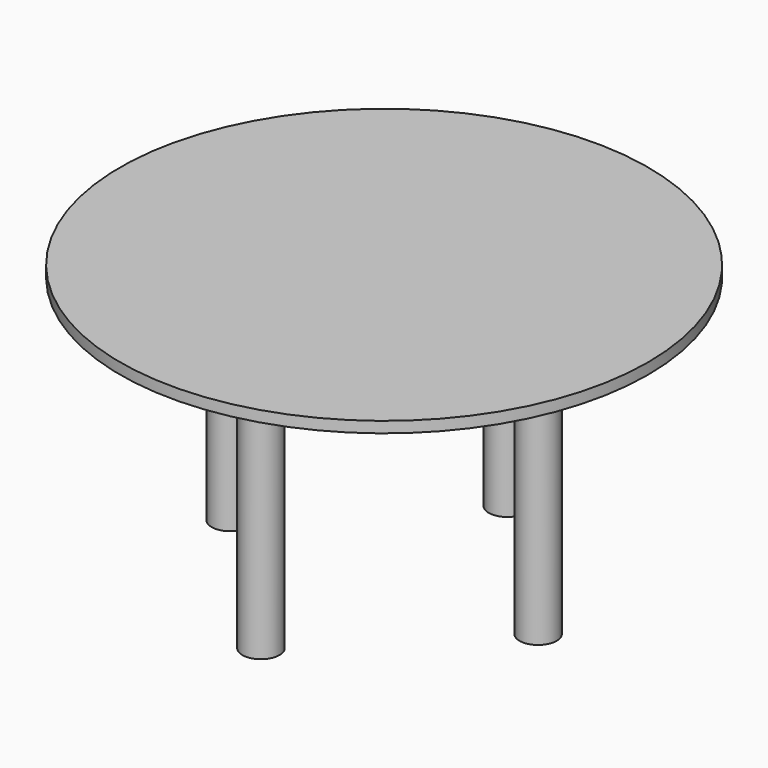
from build123d import *

# Parameters (mm, degrees)
F0_R     = 152.4
F1_DEPTH = 6.35
F3_R     = 10.7188
F4_DEPTH = 152.4


with BuildPart() as f1:
    # F0 (on Top) → F1 (new body)
    with BuildSketch(Plane.XY):
        Circle(F0_R)
    extrude(amount=F1_DEPTH)

    # F3 (on face) → F4 (join)
    with BuildSketch(Plane(origin=(0, 0, 0), x_dir=(1, 0, 0), z_dir=(0, 0, -1))):
        with Locations((-88.9, 0)):
            Circle(F3_R)
        with Locations((0, 88.9)):
            Circle(F3_R)
        with Locations((0, -88.9)):
            Circle(F3_R)
        with Locations((88.9, 0)):
            Circle(F3_R)
    extrude(amount=F4_DEPTH)


solid = f1.part
